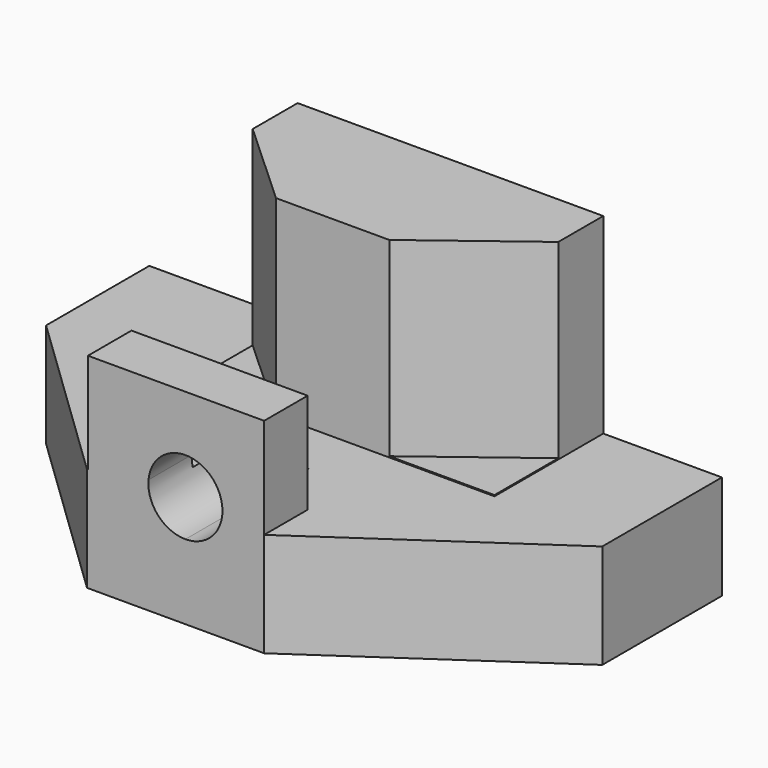
from build123d import *

# Parameters (mm, degrees)
F0_W      = 106.9598533213
F0_H      = 19.4777743891
F1_DEPTH  = 55.88
F3_DEPTH  = 25.4
F4_W      = 57.0900328457
F4_H      = 35.8569398522
F5_DEPTH  = 25.4
F7_DEPTH  = 35.56
F8_W      = 32.9107241705
F8_H      = 18.7523802742
F9_DEPTH  = 10.16
F11_DEPTH = 20.32


with BuildPart() as f1:
    # F0 (on Front) → F1 (new body)
    with BuildSketch(Plane.XZ):
        with Locations((-7.975814864, 2.0988979377)):
            Rectangle(F0_W, F0_H)
    extrude(amount=F1_DEPTH)

    # F2 (on face) → F3 (cut)
    with BuildSketch(Plane.XY.offset(11.8377851322)):
        Polygon((45.5041117966, -27.94), (4.7015314922, -55.88), (45.5041117966, -55.88), align=None)
        Polygon((-61.4557415247, -55.88), (-28.377102688, -55.88), (-61.4557415247, -24.0953527391), align=None)
    extrude(amount=-F3_DEPTH, mode=Mode.SUBTRACT)

    # F4 (on Front) → F5 (join)
    with BuildSketch(Plane.XZ):
        with Locations((-5.2052680403, 29.6829007566)):
            Rectangle(F4_W, F4_H)
    extrude(amount=F5_DEPTH)

    # F6 (on face) → F7 (cut)
    with BuildSketch(Plane.XY.offset(47.6113706827)):
        Polygon((23.3397483826, -10.4944910854), (3.6940614227, -25.4), (23.3397483826, -25.4), align=None)
        Polygon((-33.7502844632, -25.4), (-17.4628347158, -25.4), (-33.7502844632, -10.4944910854), align=None)
    extrude(amount=-F7_DEPTH, mode=Mode.SUBTRACT)

    # F8 (on face) → F9 (join)
    with BuildSketch(Plane.XZ.offset(55.88)):
        with Locations((-11.7538305931, 21.2139752693)):
            Rectangle(F8_W, F8_H)
    extrude(amount=-F9_DEPTH)

    # F10 (on face) → F11 (cut)
    with BuildSketch(Plane.XZ.offset(55.88)):
        with BuildLine():
            Line((-3.0823028615, 13.2553465664), (-10.0014163181, 13.2553465664))
            Line((-10.0014163181, 13.2553465664), (-10.0014163181, 6.3362331098))
            ThreePointArc((-10.0014163181, 6.3362331098), (-5.1088642731, 8.3627945214), (-3.0823028615, 13.2553465664))
        make_face()
        with BuildLine():
            Line((-10.0014163181, 6.3362331098), (-10.0014163181, 13.2553465664))
            Line((-10.0014163181, 13.2553465664), (-16.8943863629, 13.856258363))
            ThreePointArc((-16.8943863629, 13.856258363), (-15.1020000065, 8.5800736264), (-10.0014163181, 6.3362331098))
        make_face()
        with BuildLine():
            Line((-16.8943863629, 13.856258363), (-10.0014163181, 13.2553465664))
            Line((-10.0014163181, 13.2553465664), (-9.4005045216, 20.1483166113))
            ThreePointArc((-9.4005045216, 20.1483166113), (-14.4505733731, 18.5543212339), (-16.8943863629, 13.856258363))
        make_face()
        with BuildLine():
            Line((-9.4005045216, 20.1483166113), (-10.0014163181, 13.2553465664))
            Line((-10.0014163181, 13.2553465664), (-3.0823028615, 13.2553465664))
            ThreePointArc((-3.0823028615, 13.2553465664), (-4.9008326298, 17.9306195065), (-9.4005045216, 20.1483166113))
        make_face()
    extrude(amount=-F11_DEPTH, mode=Mode.SUBTRACT)


solid = f1.part
